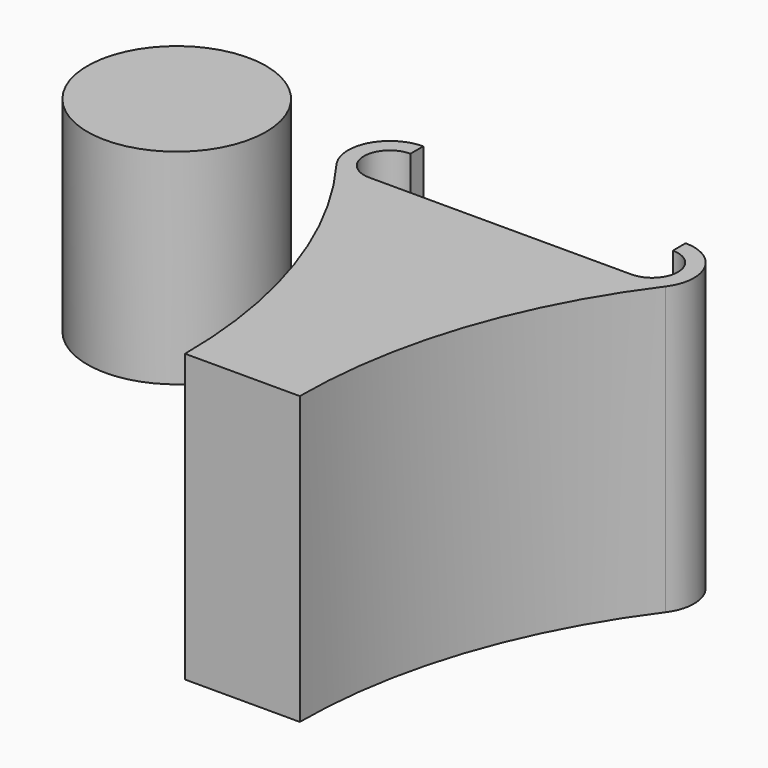
from build123d import *

# Parameters (mm, degrees)
F1_DEPTH = 35
F2_R     = 10.899382
F3_DEPTH = 25


with BuildPart() as f1:
    # F0 (on Top) → F1 (new body)
    with BuildSketch(Plane.XY):
        with BuildLine():
            Line((-6.998822, -17.428958), (0.001178, -17.428958))
            Line((0.001178, -17.428958), (7.001178, -17.428958))
            ThreePointArc((7.001178, -17.428958), (10.358855, 3.354193), (20.090249, 22.022704))
            ThreePointArc((20.090249, 22.022704), (16.065738, 19.971774), (11.991179, 21.921381))
            Line((11.991179, 21.921381), (-12.003953, 21.923408))
            ThreePointArc((-12.003953, 21.923408), (-16.073704, 19.979499), (-20.091832, 22.027985))
            ThreePointArc((-20.091832, 22.027985), (-10.357536, 3.357319), (-6.998822, -17.428958))
        make_face()
        with BuildLine():
            ThreePointArc((-16.007834, 30.168419), (-20.561561, 27.358318), (-20.091832, 22.027985))
            ThreePointArc((-20.091832, 22.027985), (-16.073704, 19.979499), (-12.003953, 21.923408))
            Line((-12.003953, 21.923408), (-16.007834, 21.923746))
            ThreePointArc((-16.007834, 21.923746), (-19.157834, 25.073746), (-16.007834, 28.223746))
            Line((-16.007834, 28.223746), (-16.007834, 30.168419))
        make_face()
        with BuildLine():
            ThreePointArc((11.991179, 21.921381), (16.065738, 19.971774), (20.090249, 22.022704))
            ThreePointArc((20.090249, 22.022704), (20.56002, 27.358081), (16.001944, 30.170709))
            Line((16.001944, 30.170709), (16.001944, 28.221042))
            ThreePointArc((16.001944, 28.221042), (19.151944, 25.071042), (16.001944, 21.921042))
            Line((16.001944, 21.921042), (11.991179, 21.921381))
        make_face()
    extrude(amount=F1_DEPTH)


with BuildPart() as f3:
    # F2 (on Top) → F3 (new body)
    with BuildSketch(Plane.XY):
        with Locations((-52.467067, 38.139902)):
            Circle(F2_R)
    extrude(amount=F3_DEPTH)


solid = Compound([f1.part, f3.part])
